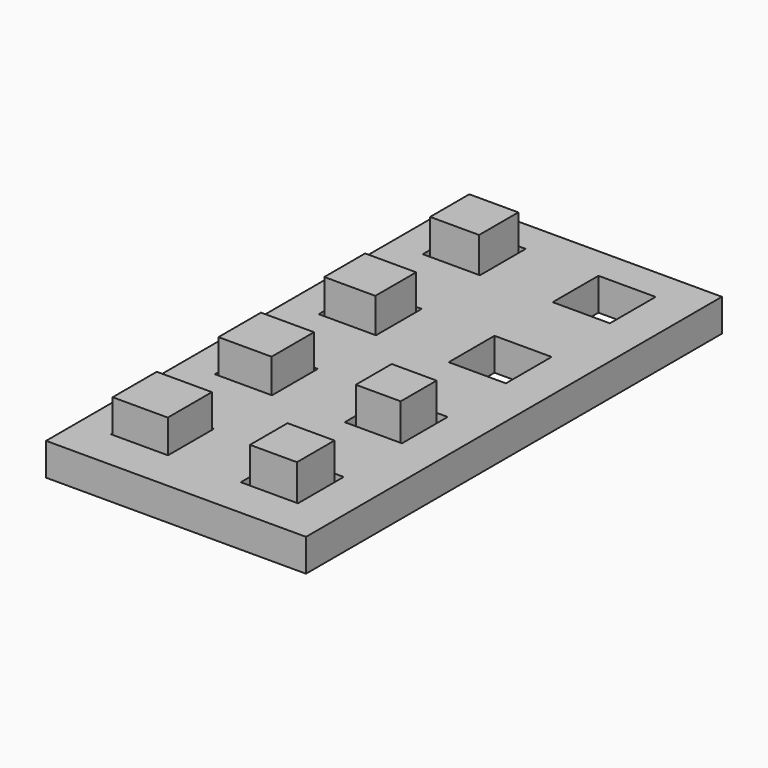
from build123d import *

# Parameters (mm, degrees)
F0_W          = 50.8
F0_H          = 50.8
F0_W_2        = 5.588
F0_H_2        = 5.588
F1_DEPTH      = 3.175
F2_W          = 5.188
F2_H          = 5.188
F2_W_2        = 5.388
F2_H_2        = 5.388
F2_W_3        = 4.988
F2_H_3        = 4.988
F2_W_4        = 4.788
F2_H_4        = 4.788
F2_W_5        = 4.388
F2_H_5        = 4.388
F2_W_6        = 4.588
F2_H_6        = 4.588
F3_DEPTH      = 3.175
F3_DEPTH_BACK = 3.175
F5_DEPTH      = 25.4


with BuildPart() as f1:
    # F0 (on Top) → F1 (new body)
    with BuildSketch(Plane.XY):
        with Locations((25.4, 25.4)):
            Rectangle(F0_W, F0_H)
        with Locations((5.969, 6.731)):
            Rectangle(F0_W_2, F0_H_2, mode=Mode.SUBTRACT)
        with Locations((18.669, 6.731)):
            Rectangle(F0_W_2, F0_H_2, mode=Mode.SUBTRACT)
        with Locations((5.969, 19.431)):
            Rectangle(F0_W_2, F0_H_2, mode=Mode.SUBTRACT)
        with Locations((18.669, 19.431)):
            Rectangle(F0_W_2, F0_H_2, mode=Mode.SUBTRACT)
        with Locations((31.369, 6.731)):
            Rectangle(F0_W_2, F0_H_2, mode=Mode.SUBTRACT)
        with Locations((44.069, 6.731)):
            Rectangle(F0_W_2, F0_H_2, mode=Mode.SUBTRACT)
        with Locations((31.369, 19.431)):
            Rectangle(F0_W_2, F0_H_2, mode=Mode.SUBTRACT)
        with Locations((44.069, 19.431)):
            Rectangle(F0_W_2, F0_H_2, mode=Mode.SUBTRACT)
        with Locations((5.969, 32.131)):
            Rectangle(F0_W_2, F0_H_2, mode=Mode.SUBTRACT)
        with Locations((18.669, 32.131)):
            Rectangle(F0_W_2, F0_H_2, mode=Mode.SUBTRACT)
        with Locations((5.969, 44.831)):
            Rectangle(F0_W_2, F0_H_2, mode=Mode.SUBTRACT)
        with Locations((18.669, 44.831)):
            Rectangle(F0_W_2, F0_H_2, mode=Mode.SUBTRACT)
        with Locations((31.369, 32.131)):
            Rectangle(F0_W_2, F0_H_2, mode=Mode.SUBTRACT)
        with Locations((44.069, 32.131)):
            Rectangle(F0_W_2, F0_H_2, mode=Mode.SUBTRACT)
        with Locations((31.369, 44.831)):
            Rectangle(F0_W_2, F0_H_2, mode=Mode.SUBTRACT)
        with Locations((44.069, 44.831)):
            Rectangle(F0_W_2, F0_H_2, mode=Mode.SUBTRACT)
    extrude(amount=F1_DEPTH)

    # F4 (on face) → F5 (cut)
    with BuildSketch(Plane.XY.offset(3.175)):
        Polygon((25.4, 25.4), (25.4, 0), (50.8, 0), (50.8, 50.8), (25.4, 50.8), align=None)
    extrude(amount=-F5_DEPTH, mode=Mode.SUBTRACT)


with BuildPart() as f3:
    # F2 (on face) → F3 (new body, two sides)
    with BuildSketch(Plane.XY.offset(3.175)) as f3_sk:
        with Locations((5.969, 19.431)):
            Rectangle(F2_W, F2_H)
        with Locations((5.969, 6.731)):
            Rectangle(F2_W_2, F2_H_2)
        with Locations((5.969, 32.131)):
            Rectangle(F2_W_3, F2_H_3)
        with Locations((5.969, 44.831)):
            Rectangle(F2_W_4, F2_H_4)
        with Locations((18.669, 19.431)):
            Rectangle(F2_W_5, F2_H_5)
        with Locations((18.669, 6.731)):
            Rectangle(F2_W_6, F2_H_6)
    extrude(amount=F3_DEPTH)
    extrude(f3_sk.sketch, amount=-F3_DEPTH_BACK)


solid = Compound([f1.part, f3.part])
